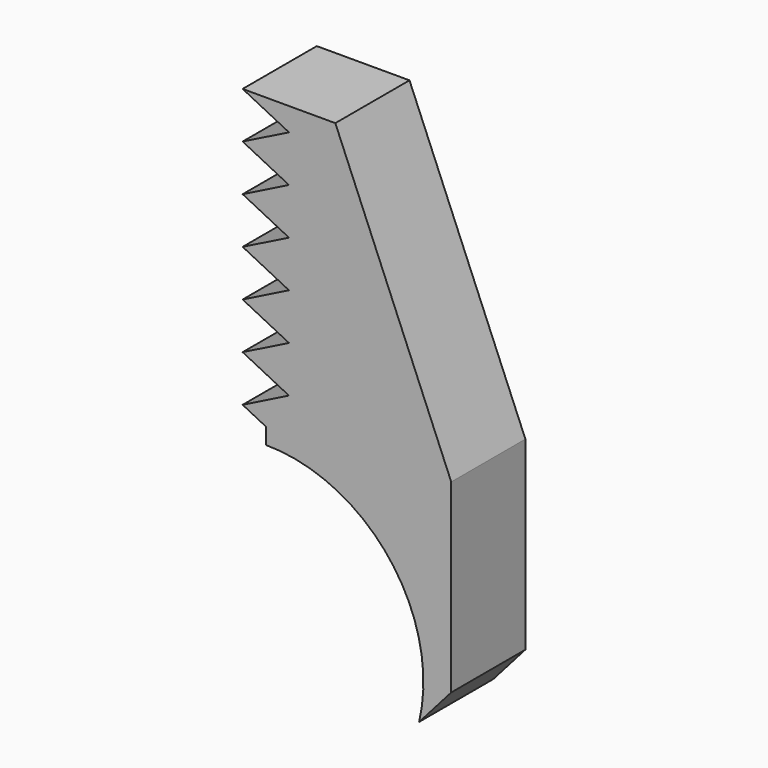
from build123d import *

# Parameters (mm, degrees)
F1_DEPTH      = 5
F3_DEPTH      = 5
F3_DEPTH_BACK = 5
F4_R          = 2.5
F5_DEPTH      = 5.001
F12_W         = 57.105852
F12_H         = 43.326581
F13_DEPTH     = 5


with BuildPart() as f1:
    # F0 (on Front) → F1 (new body)
    with BuildSketch(Plane.XZ):
        with BuildLine():
            Line((0, 9.13175), (0, 7.5))
            ThreePointArc((0, 7.5), (-6.835784, -3.085784), (5.625, -4.960784))
            Line((5.625, -4.960784), (10, 0))
            Line((10, 0), (10, 10))
            Line((10, 10), (3.75, 25))
            Line((3.75, 25), (1.25, 25))
            Line((1.25, 25), (1.25, 10))
            Line((1.25, 10), (0, 9.13175))
        make_face()
    extrude(amount=F1_DEPTH)

    # F2 (on face) → F3 (join, two sides)
    with BuildSketch(Plane.XZ.offset(5)) as f3_sk:
        with BuildLine():
            Line((3.75, 25), (1.25, 25))
            Line((1.25, 25), (1.25, 23.75))
            Line((1.25, 23.75), (-1.25, 22.5))
            Line((-1.25, 22.5), (1.25, 21.25))
            Line((1.25, 21.25), (-1.25, 20))
            Line((-1.25, 20), (1.25, 18.75))
            Line((1.25, 18.75), (-1.25, 17.5))
            Line((-1.25, 17.5), (1.25, 16.25))
            Line((1.25, 16.25), (-1.25, 15))
            Line((-1.25, 15), (1.25, 13.75))
            Line((1.25, 13.75), (-1.25, 12.5))
            Line((-1.25, 12.5), (1.25, 11.25))
            Line((1.25, 11.25), (-1.25, 10))
            Line((-1.25, 10), (0, 9.375))
            Line((0, 9.375), (0, 9.13175))
            Line((0, 9.13175), (0, 8.5))
            ThreePointArc((0, 8.5), (6.667708, 5.27178), (8.270751, -1.960784))
            Line((8.270751, -1.960784), (10, 0))
            Line((10, 0), (10, 10))
            Line((10, 10), (3.75, 25))
        make_face()
        Polygon((1.25, 23.75), (1.25, 25), (-1.25, 25), align=None)
    extrude(amount=F3_DEPTH)
    extrude(f3_sk.sketch, amount=-F3_DEPTH_BACK)

    # F4 (on face) → F5 (cut, through all)
    with BuildSketch(Plane.XZ.offset(5)):
        Circle(F4_R)
    extrude(amount=-F5_DEPTH, mode=Mode.SUBTRACT)

    # F12 (on face) → F13 (cut)
    with BuildSketch(Plane.XZ):
        with Locations((-1.16475, 8.679668)):
            Rectangle(F12_W, F12_H)
    extrude(amount=F13_DEPTH, mode=Mode.SUBTRACT)


with BuildPart() as f6_1:
    # F6: copy of F1
    add(f1.part)


with BuildPart() as f8_1:
    # F8: copy of F1
    add(f1.part.moved(Location((20, 0, 0))))


with BuildPart() as f10_1:
    # F10: copy of F1
    add(f1.part)


solid = f1.part
